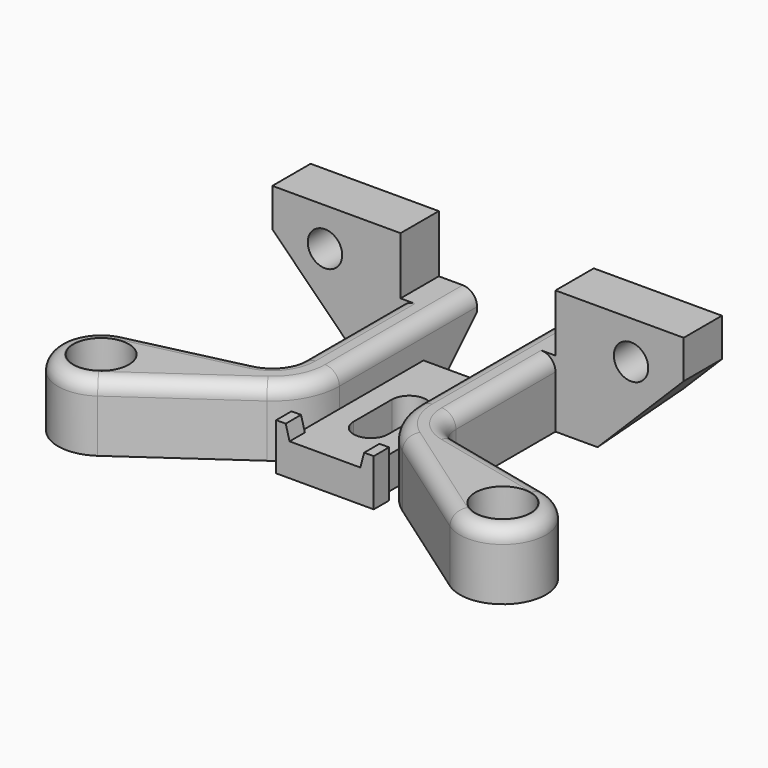
from build123d import *

# Parameters (mm, degrees)
SKETCH_R        = 1.8
PAD_DEPTH       = 7
SKETCH001_R     = 2.9
POCKET_DEPTH    = 3
SKETCH002_W     = 13.4
SKETCH002_H     = 5
PAD001_DEPTH    = 6
SKETCH005_R     = 1.8
POCKET002_DEPTH = 5
SKETCH009_W     = 8.2
SKETCH009_H     = 18
POCKET006_DEPTH = 3.6
POCKET003_DEPTH = 47.001
POCKET004_DEPTH = 5
POCKET005_DEPTH = 3.401
PAD002_DEPTH    = 2
FILLET_R        = 1.5


with BuildPart() as part:
    # Sketch → Pad (new body)
    with BuildSketch(Plane.XY):
        with BuildLine():
            Line((-21.5, 0), (-21.5, -5))
            Line((-21.5, -5), (-8.1, -5))
            Line((-8.1, -5), (-8.1, -18))
            ThreePointArc((-10.421049, -20.922161), (-8.750867, -19.865898), (-8.1, -18))
            Line((-10.421049, -20.922161), (-22.018426, -23.616758))
            ThreePointArc((-22.018426, -23.616758), (-25.108802, -29.835142), (-18.415416, -31.683738))
            Line((-7.079536, -23.730259), (-18.415416, -31.683738))
            ThreePointArc((-7.079536, -23.730259), (-4.889394, -21.2293), (-4.1, -18))
            Line((-4.1, -18), (-4.1, -25))
            Line((-4.1, -25), (4.1, -25))
            Line((4.1, -18), (4.1, -25))
            ThreePointArc((4.1, -18), (4.889394, -21.2293), (7.079536, -23.730259))
            Line((7.079536, -23.730259), (18.415416, -31.683738))
            ThreePointArc((18.415416, -31.683738), (25.108802, -29.835142), (22.018426, -23.616758))
            Line((10.421049, -20.922161), (22.018426, -23.616758))
            ThreePointArc((8.1, -18), (8.750867, -19.865898), (10.421049, -20.922161))
            Line((8.1, -5), (8.1, -18))
            Line((21.5, -5), (8.1, -5))
            Line((21.5, -5), (21.5, 0))
            Line((21.5, 0), (4.1, 0))
            Line((4.1, 0), (4.1, -7))
            Line((-4.1, -7), (4.1, -7))
            Line((-4.1, 0), (-4.1, -7))
            Line((-21.5, 0), (-4.1, 0))
        make_face()
        with Locations((-21, -28)):
            Circle(SKETCH_R, mode=Mode.SUBTRACT)
        with Locations((21, -28)):
            Circle(SKETCH_R, mode=Mode.SUBTRACT)
    extrude(amount=PAD_DEPTH)

    # Sketch001 (on Face28 of Pad) → Pocket (cut)
    with BuildSketch(Plane.XY.offset(7)):
        with Locations((-21, -28)):
            Circle(SKETCH001_R)
        with Locations((21, -28)):
            Circle(SKETCH001_R)
    extrude(amount=-POCKET_DEPTH, mode=Mode.SUBTRACT)

    # Sketch002 (on Face5 of Pocket) → Pad001 (join)
    with BuildSketch(Plane.XY.offset(7)):
        with Locations((14.8, -2.5)):
            Rectangle(SKETCH002_W, SKETCH002_H)
        with Locations((-14.8, -2.5)):
            Rectangle(SKETCH002_W, SKETCH002_H)
    extrude(amount=PAD001_DEPTH)

    # Sketch005 (on Face32 of Pad001) → Pocket002 (cut)
    with BuildSketch(Plane(origin=(0, 0, 0), x_dir=(-1, 0, 0), z_dir=(0, 1, 0))):
        with Locations((-16, 9)):
            Circle(SKETCH005_R)
        with Locations((16, 9)):
            Circle(SKETCH005_R)
    extrude(amount=-POCKET002_DEPTH, mode=Mode.SUBTRACT)

    # Sketch009 (on Face31 of Pocket002) → Pocket006 (cut)
    with BuildSketch(Plane.XY.offset(7)):
        with Locations((0, -16)):
            Rectangle(SKETCH009_W, SKETCH009_H)
    extrude(amount=-POCKET006_DEPTH, mode=Mode.SUBTRACT)

    # Sketch006 (on Face2 of Pocket006) → Pocket003 (cut, through all)
    with BuildSketch(Plane(origin=(-21.5, 0, 0), x_dir=(0, -1, 0), z_dir=(-1, 0, 0))):
        Polygon((5, 0), (0, 0), (0, 5), align=None)
    extrude(amount=-POCKET003_DEPTH, mode=Mode.SUBTRACT)

    # Sketch007 (on Face25 of Pocket003) → Pocket004 (cut)
    with BuildSketch(Plane.XZ.offset(5)):
        Polygon((-21.5, 0), (-21.5, 9), (-12.5, 0), align=None)
        Polygon((21.5, 0), (21.5, 9), (12.5, 0), align=None)
    extrude(amount=-POCKET004_DEPTH, mode=Mode.SUBTRACT)

    # Sketch008 (on Face27 of Pocket004) → Pocket005 (cut, through all)
    with BuildSketch(Plane.XY.offset(3.4)):
        with BuildLine():
            ThreePointArc((1.8, -14), (0, -12.2), (-1.8, -14))
            Line((-1.8, -14), (-1.8, -19))
            ThreePointArc((-1.8, -19), (0, -20.8), (1.8, -19))
            Line((1.8, -14), (1.8, -19))
        make_face()
    extrude(amount=-POCKET005_DEPTH, mode=Mode.SUBTRACT)

    # Sketch010 (on Face17 of Pocket005) → Pad002 (join)
    with BuildSketch(Plane.XZ.offset(25)):
        Polygon((-4.1, 4.9), (-5.1, 4.9), (-5.1, 0), (-4.1, 0), (-4.1, 3.4), (-3.7, 3.4), align=None)
        Polygon((4.1, 0), (5.1, 0), (5.1, 4.9), (4.1, 4.9), (3.7, 3.4), (4.1, 3.4), align=None)
    extrude(amount=-PAD002_DEPTH)

    # Fillet
    fillet_edges = [part.edges().sort_by_distance(p)[0] for p in [
        (-12.747476, -27.706999, 7),
        (12.747476, -27.706999, 7),
    ]]
    fillet(fillet_edges, radius=FILLET_R)


solid = part.part
